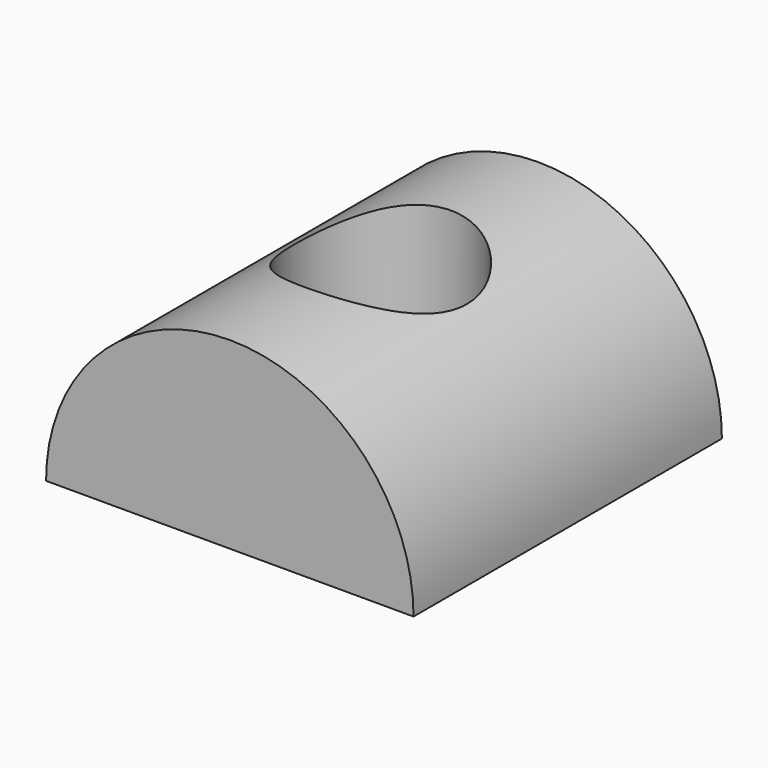
from build123d import *

# Parameters (mm, degrees)
F0_W     = 43.18
F0_H     = 43.688
F0_R     = 9.779
F1_DEPTH = 20.828
F3_DEPTH = 43.689


with BuildPart() as f1:
    # F0 (on Top) → F1 (new body)
    with BuildSketch(Plane.XY):
        with Locations((1.708757, -5.584716)):
            Rectangle(F0_W, F0_H)
        with Locations((1.327757, -5.584716)):
            Circle(F0_R, mode=Mode.SUBTRACT)
    extrude(amount=F1_DEPTH)

    # F2 (on face) → F3 (cut, through all)
    with BuildSketch(Plane.XZ.offset(27.428716)):
        with BuildLine():
            ThreePointArc((-19.11677, 0), (1.708757, 20.825528), (22.534285, 0))
            Line((22.534285, 0), (23.298757, 0))
            Line((23.298757, 0), (23.298757, 20.828))
            Line((23.298757, 20.828), (-19.881243, 20.828))
            Line((-19.881243, 20.828), (-19.881243, 0))
            Line((-19.881243, 0), (-19.11677, 0))
        make_face()
    extrude(amount=-F3_DEPTH, mode=Mode.SUBTRACT)


solid = f1.part
